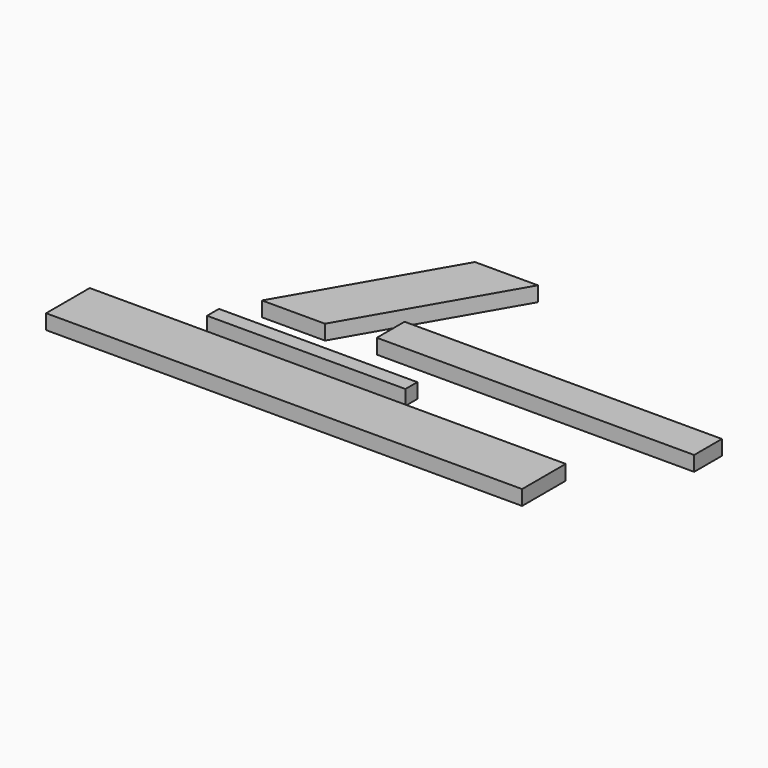
from build123d import *

# Parameters (mm, degrees)
F0_W     = 1219.2
F0_H     = 139.7
F1_DEPTH = 38.1
F2_W     = 508
F2_H     = 38.1
F3_DEPTH = 38.1
F5_DEPTH = 38.1
F6_W     = 812.8
F6_H     = 88.9
F7_DEPTH = 38.1


with BuildPart() as f1:
    # F0 (on Top) → F1 (new body)
    with BuildSketch(Plane.XY):
        with Locations((-15.176143, -96.608518)):
            Rectangle(F0_W, F0_H)
    extrude(amount=F1_DEPTH)


with BuildPart() as f3:
    # F2 (on Top) → F3 (new body)
    with BuildSketch(Plane.XY):
        with Locations((-112.544402, 45.231579)):
            Rectangle(F2_W, F2_H)
    extrude(amount=F3_DEPTH)


with BuildPart() as f5:
    # F4 (on Top) → F5 (new body)
    with BuildSketch(Plane.XY):
        Polygon((-93.532276, 542.4549), (-322.132276, 146.508085), (-160.820611, 146.508085), (67.779389, 542.4549), align=None)
    extrude(amount=F5_DEPTH)


with BuildPart() as f7:
    # F6 (on Top) → F7 (new body)
    with BuildSketch(Plane.XY):
        with Locations((364.473906, 208.233155)):
            Rectangle(F6_W, F6_H)
    extrude(amount=F7_DEPTH)


solid = Compound([f1.part, f3.part, f5.part, f7.part])
